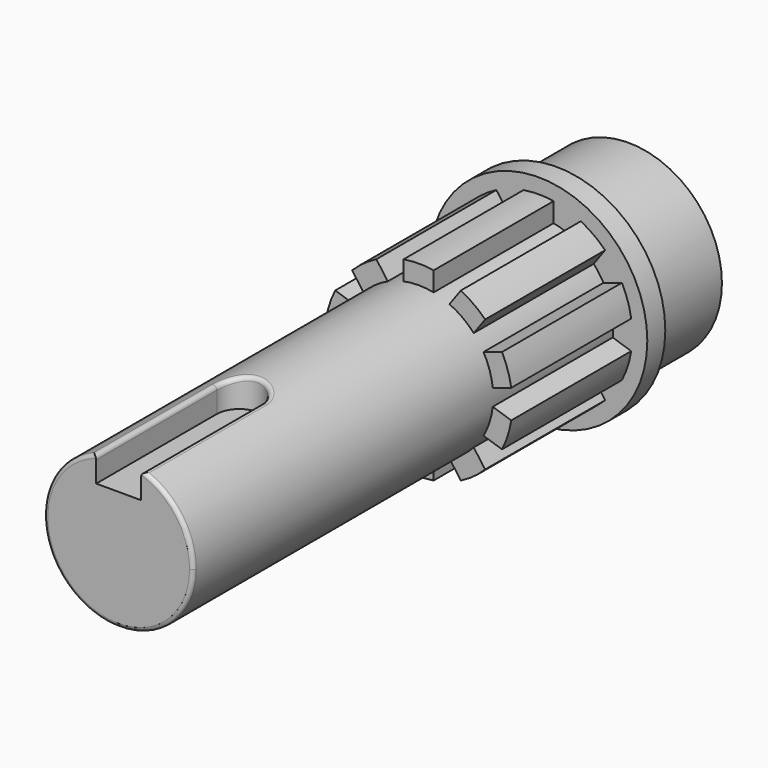
from build123d import *

# Parameters (mm, degrees)
F0_R      = 12.45
F1_DEPTH  = 12
F2_R      = 14.5
F3_DEPTH  = 3
F4_R      = 9.95
F5_DEPTH  = 70
F7_DEPTH  = 20
F10_DEPTH = 23.8
F11_R     = 0.5


with BuildPart() as f1:
    # F0 (on Front) → F1 (new body)
    with BuildSketch(Plane.XZ):
        Circle(F0_R)
    extrude(amount=-F1_DEPTH)

    # F2 (on Front) → F3 (join)
    with BuildSketch(Plane.XZ):
        Circle(F2_R)
    extrude(amount=F3_DEPTH)

    # F4 (on face) → F5 (join)
    with BuildSketch(Plane.XZ.offset(3)):
        Circle(F4_R)
    extrude(amount=F5_DEPTH)

    # F6 (on face) → F7 (join)
    with BuildSketch(Plane.XZ.offset(3)):
        with BuildLine():
            Line((2, 9.7469225913), (2, 12.3389626793))
            ThreePointArc((2, 12.3389626793), (0, 12.5), (-2, 12.3389626793))
            Line((-2, 12.3389626793), (-2, 9.7469225913))
            ThreePointArc((-2, 9.7469225913), (0, 9.95), (2, 9.7469225913))
        make_face()
        with BuildLine():
            ThreePointArc((-7.3471313431, 6.7098555146), (-5.8484632603, 8.049719094), (-4.1110633656, 9.0609965238))
            Line((-4.1110633656, 9.0609965238), (-5.6346263027, 11.1580010051))
            ThreePointArc((-5.6346263027, 11.1580010051), (-7.3473156537, 10.1127124297), (-8.8706942802, 8.8068599959))
            Line((-8.8706942802, 8.8068599959), (-7.3471313431, 6.7098555146))
        make_face()
        with BuildLine():
            ThreePointArc((-9.887908233, 1.109851691), (-9.4630123371, 3.074719094), (-8.6518402555, 4.9140777561))
            Line((-8.6518402555, 4.9140777561), (-11.1170168717, 5.7150621934))
            ThreePointArc((-11.1170168717, 5.7150621934), (-11.8882064537, 3.8627124297), (-12.3530848492, 1.9108361283))
            Line((-12.3530848492, 1.9108361283), (-9.887908233, 1.109851691))
        make_face()
        with BuildLine():
            ThreePointArc((-8.6518402555, -4.9140777561), (-9.4630123371, -3.074719094), (-9.887908233, -1.109851691))
            Line((-9.887908233, -1.109851691), (-12.3530848492, -1.9108361283))
            ThreePointArc((-12.3530848492, -1.9108361283), (-11.8882064537, -3.8627124297), (-11.1170168717, -5.7150621934))
            Line((-11.1170168717, -5.7150621934), (-8.6518402555, -4.9140777561))
        make_face()
        with BuildLine():
            ThreePointArc((-4.1110633656, -9.0609965238), (-5.8484632603, -8.049719094), (-7.3471313431, -6.7098555146))
            Line((-7.3471313431, -6.7098555146), (-8.8706942802, -8.8068599959))
            ThreePointArc((-8.8706942802, -8.8068599959), (-7.3473156537, -10.1127124297), (-5.6346263027, -11.1580010051))
            Line((-5.6346263027, -11.1580010051), (-4.1110633656, -9.0609965238))
        make_face()
        with BuildLine():
            ThreePointArc((2, -9.7469225913), (0, -9.95), (-2, -9.7469225913))
            Line((-2, -9.7469225913), (-2, -12.3389626793))
            ThreePointArc((-2, -12.3389626793), (0, -12.5), (2, -12.3389626793))
            Line((2, -12.3389626793), (2, -9.7469225913))
        make_face()
        with BuildLine():
            Line((8.8706942802, -8.8068599959), (7.3471313431, -6.7098555146))
            ThreePointArc((7.3471313431, -6.7098555146), (5.8484632603, -8.049719094), (4.1110633656, -9.0609965238))
            Line((4.1110633656, -9.0609965238), (5.6346263027, -11.1580010051))
            ThreePointArc((5.6346263027, -11.1580010051), (7.3473156537, -10.1127124297), (8.8706942802, -8.8068599959))
        make_face()
        with BuildLine():
            Line((12.3530848492, -1.9108361283), (9.887908233, -1.109851691))
            ThreePointArc((9.887908233, -1.109851691), (9.4630123371, -3.074719094), (8.6518402555, -4.9140777561))
            Line((8.6518402555, -4.9140777561), (11.1170168717, -5.7150621934))
            ThreePointArc((11.1170168717, -5.7150621934), (11.8882064537, -3.8627124297), (12.3530848492, -1.9108361283))
        make_face()
        with BuildLine():
            Line((11.1170168717, 5.7150621934), (8.6518402555, 4.9140777561))
            ThreePointArc((8.6518402555, 4.9140777561), (9.4630123371, 3.074719094), (9.887908233, 1.109851691))
            Line((9.887908233, 1.109851691), (12.3530848492, 1.9108361283))
            ThreePointArc((12.3530848492, 1.9108361283), (11.8882064537, 3.8627124297), (11.1170168717, 5.7150621934))
        make_face()
        with BuildLine():
            Line((5.6346263027, 11.1580010051), (4.1110633656, 9.0609965238))
            ThreePointArc((4.1110633656, 9.0609965238), (5.8484632603, 8.049719094), (7.3471313431, 6.7098555146))
            Line((7.3471313431, 6.7098555146), (8.8706942802, 8.8068599959))
            ThreePointArc((8.8706942802, 8.8068599959), (7.3473156537, 10.1127124297), (5.6346263027, 11.1580010051))
        make_face()
    extrude(amount=F7_DEPTH)

    # F9 (on offset) → F10 (cut)
    with BuildSketch(Plane.XY.offset(6)):
        with BuildLine():
            Line((-3, -52.9026644758), (-3, -80.1426661679))
            Line((-3, -80.1426661679), (3, -80.1426661679))
            Line((3, -80.1426661679), (3, -52.9026644758))
            ThreePointArc((3, -52.9026644758), (0, -49.9026644758), (-3, -52.9026644758))
        make_face()
    extrude(amount=F10_DEPTH, mode=Mode.SUBTRACT)

    # F11
    f11_edges = [f1.edges().sort_by_distance(p)[0] for p in [
        (-3, -62.951332, 9.486965),
        (0, -49.902664, 9.95),
        (3, -62.951332, 9.486965),
        (-5.880157, -73, -8.026596),
    ]]
    fillet(f11_edges, radius=F11_R)


solid = f1.part
